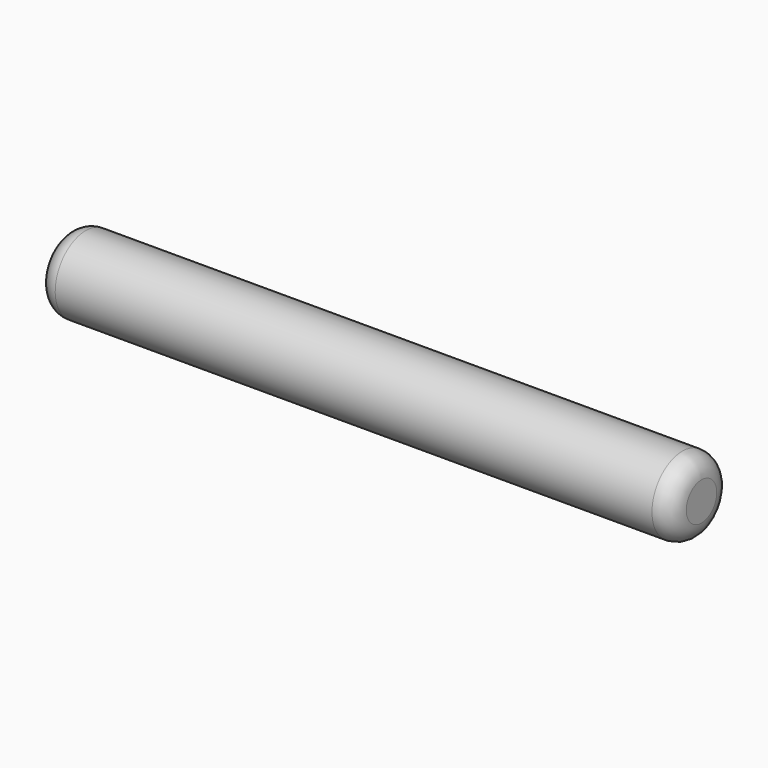
from build123d import *


with BuildPart() as f1:
    # F0 (on Front) → F1 (revolve)
    with BuildSketch(Plane.XZ):
        with BuildLine():
            Line((-24.249999, -1.5), (25.750001, -1.5))
            Line((25.750001, -1.5), (25.750001, 0))
            ThreePointArc((25.750001, 0), (25.31066, 1.060661), (24.249999, 1.5))
            Line((24.249999, 1.5), (-22.749999, 1.509827))
            ThreePointArc((-22.749999, 1.509827), (-23.814232, 1.067101), (-24.249999, 0))
            Line((-24.249999, 0), (-24.249999, -1.5))
        make_face()
    revolve(axis=Axis((0.750001, 0, -1.5), (-1, 0, 0)))


solid = f1.part
